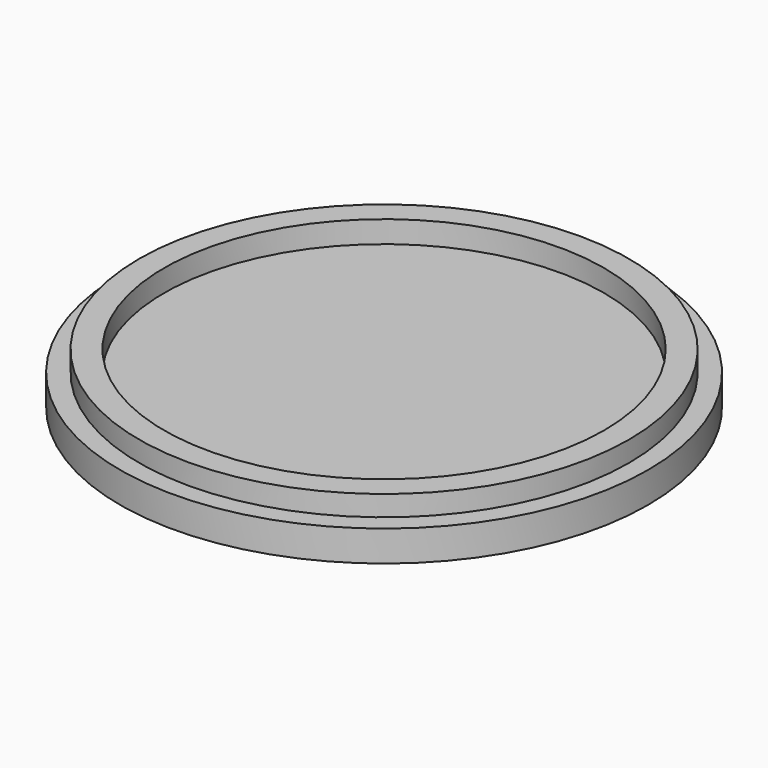
from build123d import *

# Parameters (mm, degrees)
F0_R     = 45.72
F1_DEPTH = 5.334
F2_R     = 42.418
F3_DEPTH = 8.89
F4_R     = 38.1
F5_DEPTH = 3.81


with BuildPart() as f1:
    # F0 (on Top) → F1 (new body)
    with BuildSketch(Plane.XY):
        Circle(F0_R)
    extrude(amount=F1_DEPTH)

    # F2 (on Top) → F3 (join)
    with BuildSketch(Plane.XY):
        Circle(F2_R)
    extrude(amount=F3_DEPTH)

    # F4 (on face) → F5 (cut)
    with BuildSketch(Plane.XY.offset(8.89)):
        Circle(F4_R)
    extrude(amount=-F5_DEPTH, mode=Mode.SUBTRACT)


solid = f1.part
